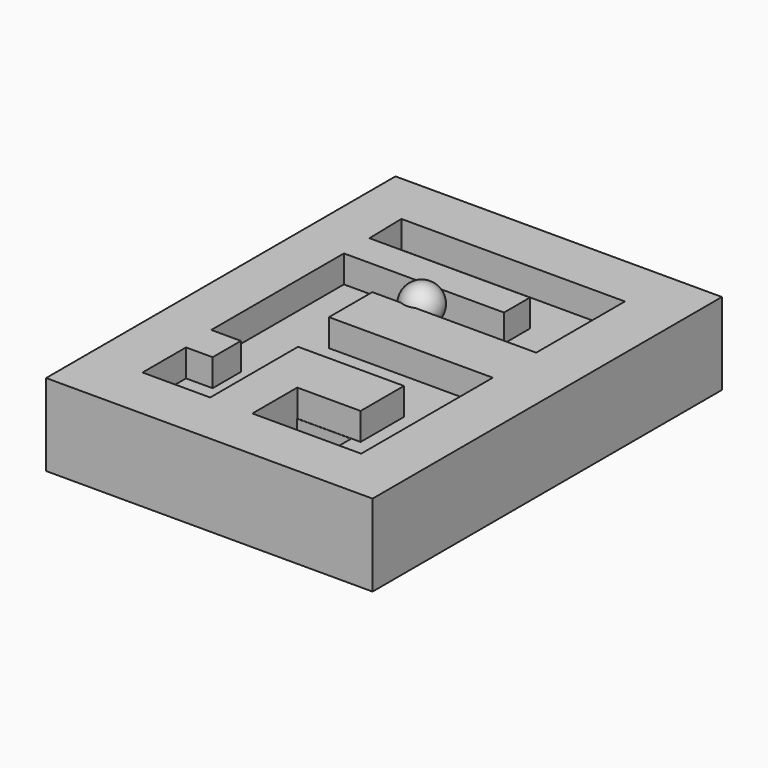
from build123d import *

# Parameters (mm, degrees)
SKETCH_W        = 59.803931
SKETCH_H        = 79.999997
PAD_DEPTH       = 15
POCKET_DEPTH    = 5
SKETCH002_W     = 9.925324
SKETCH002_H     = 10.231159
POCKET001_DEPTH = 20


with BuildPart() as cos:
    # Sketch → Pad (new body)
    with BuildSketch(Plane.XY):
        with Locations((-7e-05, 0.000155)):
            Rectangle(SKETCH_W, SKETCH_H)
    extrude(amount=PAD_DEPTH)

    # Sketch001 (on Face6 of Pad) → Pocket (cut)
    with BuildSketch(Plane.XY.offset(15)):
        Polygon((-21.01289, 30.243032), (19.933664, 30.243032), (19.933664, 9.931581), (-10.086459, 9.931581), (-10.086459, 0), (19.933664, 0), (19.933664, -30.141647), (0, -30.141647), (0, -19.861084), (11.602569, -19.861084), (11.602569, -9.929664), (-7.8056, -9.929664), (-7.8056, -30.045567), (-20.199926, -30.045567), (-20.199926, -20.088192), (-15.325379, -20.088192), (-15.325379, -13.610632), (-20.752523, -13.610632), (-20.752523, 16.762701), (8.573809, 16.762701), (8.573809, 22.715054), (-20.837824, 22.715054), align=None)
    extrude(amount=-POCKET_DEPTH, mode=Mode.SUBTRACT)

    # Sketch002 (on Face29 of Pocket) → Pocket001 (cut)
    with BuildSketch(Plane.XY.offset(10)):
        with Locations((4.962662, -25.031747)):
            Rectangle(SKETCH002_W, SKETCH002_H)
    extrude(amount=-POCKET001_DEPTH, mode=Mode.SUBTRACT)


with BuildPart() as esfera:
    # Sphere → Sphere (revolve)
    with BuildSketch(Plane(origin=(-3.5, 13, 14), x_dir=(1, 0, 0), z_dir=(0, -1, 0))):
        with BuildLine():
            ThreePointArc((0, -3.5), (3.5, 0), (0, 3.5))
            Line((0, 3.5), (0, -3.5))
        make_face()
    revolve(axis=Axis((-3.5, 13, 14), (0, 0, 1)))


solid = Compound([cos.part, esfera.part])
